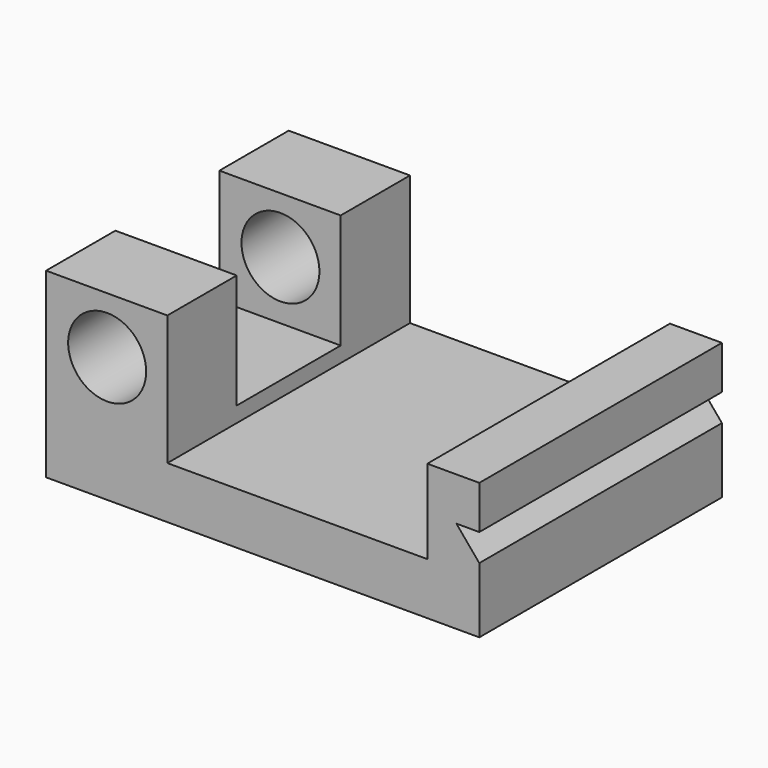
from build123d import *

# Parameters (mm, degrees)
F0_W      = 50
F0_H      = 35
F1_DEPTH  = 6
F2_W      = 14
F2_H      = 35
F3_DEPTH  = 15
F4_W      = 15
F4_H      = 13.216582
F5_DEPTH  = 25
F6_R      = 4.5
F7_DEPTH  = 41.5
F8_W      = 6
F8_H      = 35
F9_DEPTH  = 9.7
F11_DEPTH = 36.8


with BuildPart() as f1:
    # F0 (on Top) → F1 (new body)
    with BuildSketch(Plane.XY):
        Rectangle(F0_W, F0_H)
    extrude(amount=F1_DEPTH)

    # F2 (on face) → F3 (join)
    with BuildSketch(Plane.XY.offset(6)):
        with Locations((-18, 0)):
            Rectangle(F2_W, F2_H)
    extrude(amount=F3_DEPTH)

    # F4 (on face) → F5 (cut)
    with BuildSketch(Plane.YZ.offset(-11)):
        with Locations((0, 14.391709)):
            Rectangle(F4_W, F4_H)
    extrude(amount=-F5_DEPTH, mode=Mode.SUBTRACT)

    # F6 (on face) → F7 (cut)
    with BuildSketch(Plane.XZ.offset(17.5)):
        with Locations((-17.95, 14.500192)):
            Circle(F6_R)
    extrude(amount=-F7_DEPTH, mode=Mode.SUBTRACT)

    # F8 (on face) → F9 (join)
    with BuildSketch(Plane.XY.offset(6)):
        with Locations((22, 0)):
            Rectangle(F8_W, F8_H)
    extrude(amount=F9_DEPTH)

    # F10 (on face) → F11 (cut)
    with BuildSketch(Plane(origin=(0, 17.5, 0), x_dir=(-1, 0, 0), z_dir=(0, 1, 0))):
        Polygon((-22.35515, 10.7), (-25, 10.7), (-25, 7.547991), align=None)
    extrude(amount=-F11_DEPTH, mode=Mode.SUBTRACT)


solid = f1.part
